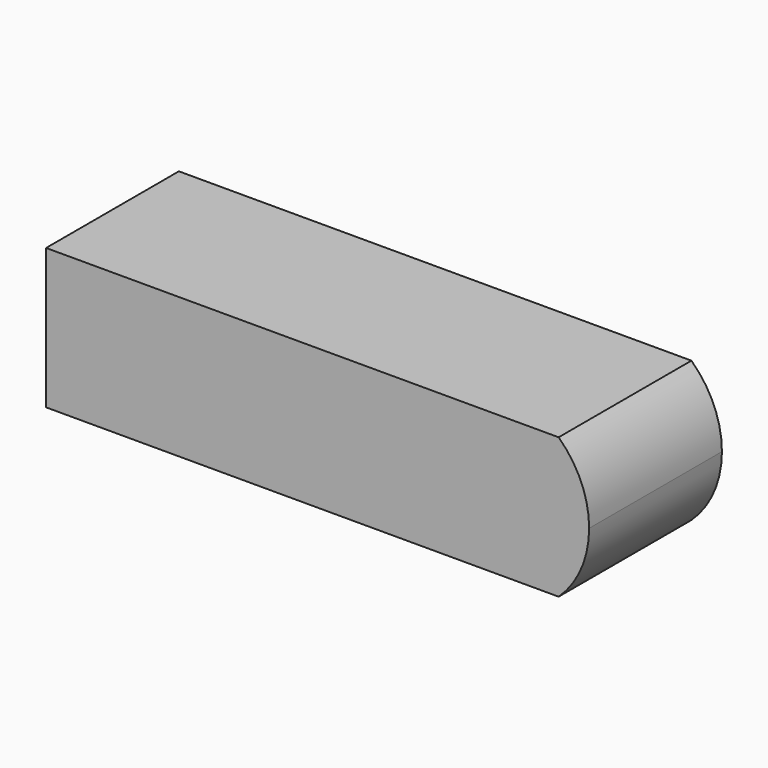
from build123d import *

# Parameters (mm, degrees)
F0_W     = 113.03
F0_H     = 34.544
F1_DEPTH = 14.605
F3_DEPTH = 34.545


with BuildPart() as f1:
    # F0 (on Top) → F1 (new body, symmetric)
    with BuildSketch(Plane.XY):
        Rectangle(F0_W, F0_H)
    extrude(amount=F1_DEPTH, both=True)

    # F2 (on face) → F3 (cut, through all)
    with BuildSketch(Plane.XZ.offset(17.272)):
        with BuildLine():
            ThreePointArc((50.165, 14.605), (54.858827, 7.962859), (56.515, 0))
            Line((56.515, 0), (56.515, 14.605))
            Line((56.515, 14.605), (50.165, 14.605))
        make_face()
        with BuildLine():
            ThreePointArc((56.515, 0), (54.858827, -7.962859), (50.165, -14.605))
            Line((50.165, -14.605), (56.515, -14.605))
            Line((56.515, -14.605), (56.515, 0))
        make_face()
    extrude(amount=-F3_DEPTH, mode=Mode.SUBTRACT)


solid = f1.part
